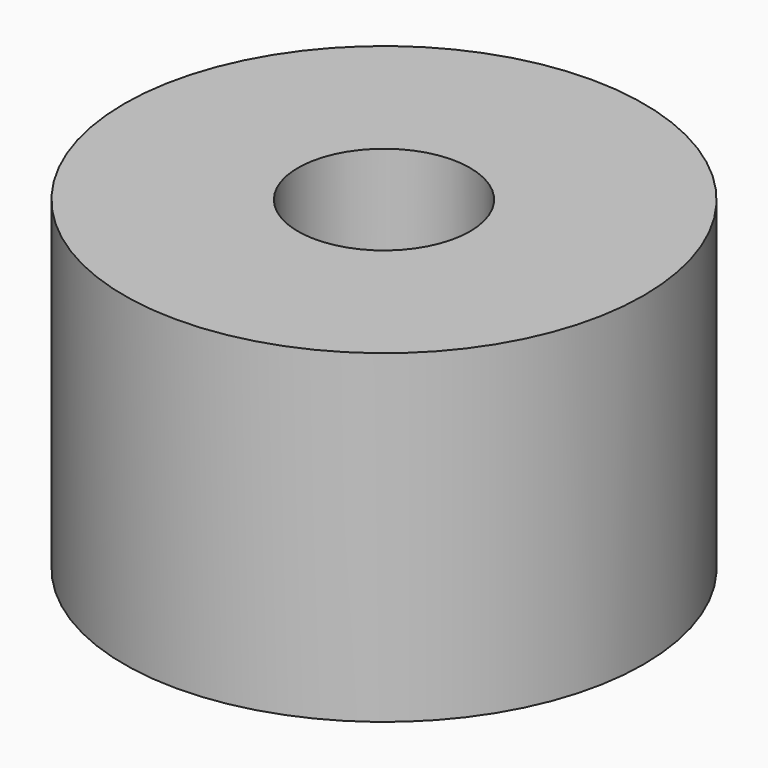
from build123d import *

# Parameters (mm, degrees)
CYLINDER1144_R     = 1
CYLINDER1144_DEPTH = 20
CYLINDER1146_R     = 1
CYLINDER1146_DEPTH = 20
CYLINDER1147_R     = 1
CYLINDER1147_DEPTH = 20
CYLINDER1140_R     = 1
CYLINDER1140_DEPTH = 20
TUBE102_R          = 8
TUBE102_R_2        = 2.65
TUBE102_DEPTH      = 10


with BuildPart() as obj1:
    # Cylinder1144 → Cylinder1144 (new body)
    with BuildSketch(Plane(origin=(4.25, -4.25, -88), x_dir=(0, 1, 0), z_dir=(0, 0, 1))):
        Circle(CYLINDER1144_R)
    extrude(amount=CYLINDER1144_DEPTH)


with BuildPart() as obj2:
    # Cylinder1146 → Cylinder1146 (new body)
    with BuildSketch(Plane(origin=(4.25, 4.25, -88), x_dir=(-1, 0, 0), z_dir=(0, 0, 1))):
        Circle(CYLINDER1146_R)
    extrude(amount=CYLINDER1146_DEPTH)


with BuildPart() as obj3:
    # Cylinder1147 → Cylinder1147 (new body)
    with BuildSketch(Plane(origin=(-4.25, 4.25, -88), x_dir=(0, -1, 0), z_dir=(0, 0, 1))):
        Circle(CYLINDER1147_R)
    extrude(amount=CYLINDER1147_DEPTH)


with BuildPart() as compound877:
    # Cylinder1140 → Cylinder1140 (new body)
    with BuildSketch(Plane(origin=(-4.25, -4.25, -88), x_dir=(1, 0, 0), z_dir=(0, 0, 1))):
        Circle(CYLINDER1140_R)
    extrude(amount=CYLINDER1140_DEPTH)

    # Compound877: union obj1, obj2, obj3
    add(obj1.part)
    add(obj2.part)
    add(obj3.part)


with BuildPart() as compound877_1:
    # Compound877 placement: moved
    add(compound877.part.moved(Location((0, 0, 91))))


with BuildPart() as cut428:
    # Tube102 → Tube102 (new body)
    with BuildSketch(Plane.XY.offset(19)):
        Circle(TUBE102_R)
        Circle(TUBE102_R_2, mode=Mode.SUBTRACT)
    extrude(amount=TUBE102_DEPTH)

    # Cut428: cut Compound877
    add(compound877_1.part, mode=Mode.SUBTRACT)


solid = cut428.part
